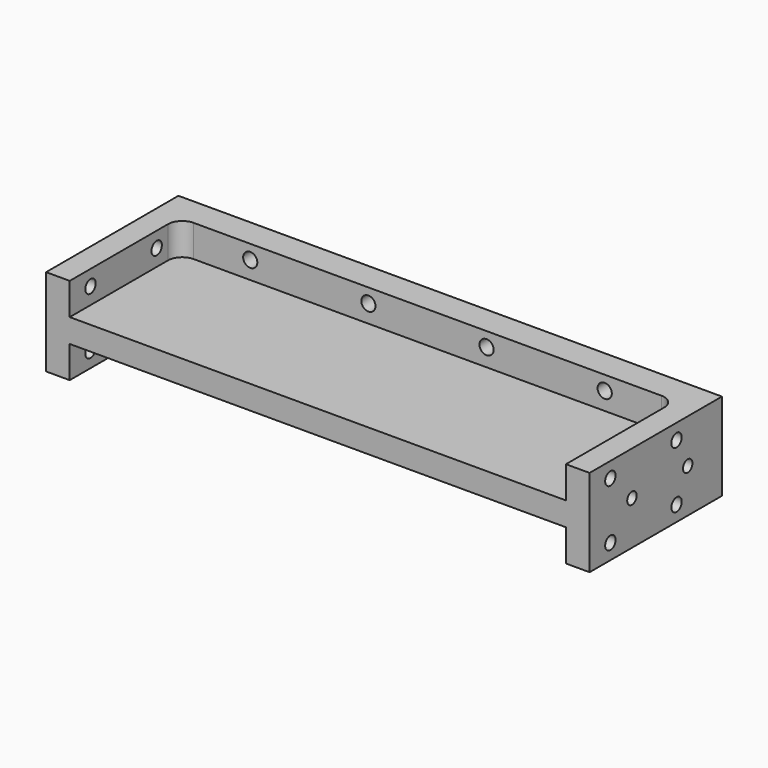
from build123d import *

# Parameters (mm, degrees)
F0_W     = 115
F0_H     = 70
F1_DEPTH = 37
F2_R     = 2.75
F2_R_2   = 2.5
F3_DEPTH = 12
F4_W     = 105
F4_H     = 13.5
F5_DEPTH = 58
F6_R     = 3
F7_DEPTH = 70.001
F9_R     = 6


with BuildPart() as f1:
    # F0 (on Top) → F1 (new body)
    with BuildSketch(Plane.XY):
        with Locations((-57.5, 3.58214689)):
            Rectangle(F0_W, F0_H)
    extrude(amount=F1_DEPTH)

    # F2 (on face) → F3 (cut)
    with BuildSketch(Plane(origin=(-115, 0, 0), x_dir=(0, -1, 0), z_dir=(-1, 0, 0))):
        with Locations((-14.58214689, 30.5)):
            Circle(F2_R)
        with Locations((-14.58214689, 6.5)):
            Circle(F2_R)
        with Locations((20.41785311, 6.5)):
            Circle(F2_R)
        with Locations((20.41785311, 30.5)):
            Circle(F2_R)
        with Locations((-20.48214689, 18.5)):
            Circle(F2_R_2)
        with Locations((9.01785311, 18.5)):
            Circle(F2_R_2)
    extrude(amount=-F3_DEPTH, mode=Mode.SUBTRACT)

    # F4 (on face) → F5 (cut)
    with BuildSketch(Plane.XZ.offset(31.41785311)):
        with Locations((-52.5, 6.75)):
            Rectangle(F4_W, F4_H)
        with Locations((-52.5, 30.25)):
            Rectangle(F4_W, F4_H)
    extrude(amount=-F5_DEPTH, mode=Mode.SUBTRACT)

    # F6 (on face) → F7 (cut, through all)
    with BuildSketch(Plane(origin=(0, 38.58214689, 0), x_dir=(-1, 0, 0), z_dir=(0, 1, 0))):
        with Locations((75, 6)):
            Circle(F6_R)
        with Locations((75, 31)):
            Circle(F6_R)
        with Locations((25, 31)):
            Circle(F6_R)
        with Locations((25, 6)):
            Circle(F6_R)
    extrude(amount=-F7_DEPTH, mode=Mode.SUBTRACT)

    # F8: F1 across plane


with BuildPart() as f1_1:
    add(f1.part)
    add(f1.part.mirror(Plane.YZ))

    # F9
    f9_edges = [f1_1.edges().sort_by_distance(p)[0] for p in [
        (-105, 26.582147, 6.75),
        (105, 26.582147, 6.75),
        (-105, 26.582147, 30.25),
        (105, 26.582147, 30.25),
    ]]
    fillet(f9_edges, radius=F9_R)


solid = f1_1.part
